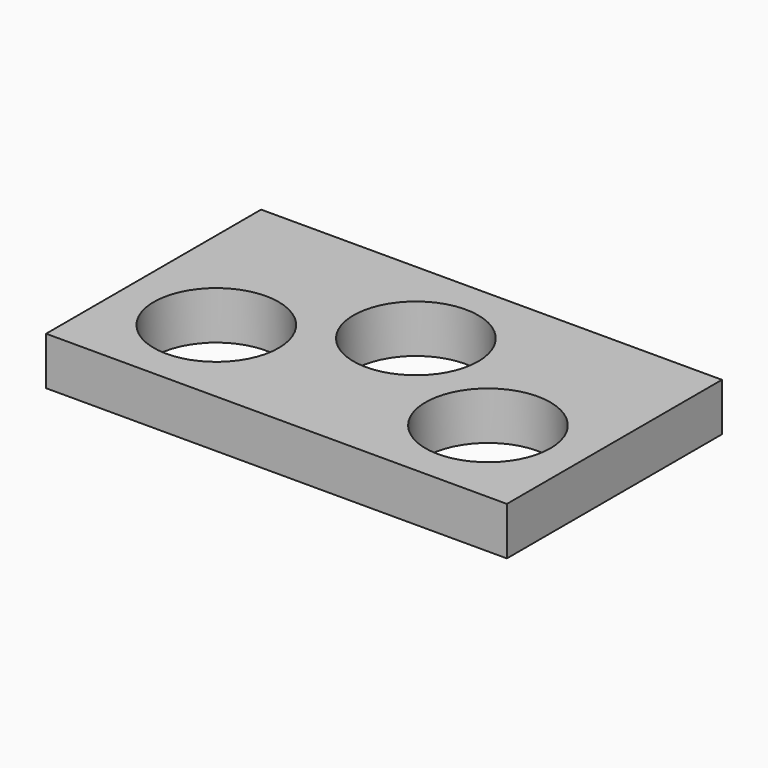
from build123d import *

# Parameters (mm, degrees)
F0_W     = 121.92
F0_H     = 71.12
F0_R     = 16.51
F1_DEPTH = 12.7


with BuildPart() as f1:
    # F0 (on Top) → F1 (new body)
    with BuildSketch(Plane.XY):
        Rectangle(F0_W, F0_H)
        with Locations((-35.941, -10.541)):
            Circle(F0_R, mode=Mode.SUBTRACT)
        with Locations((35.941, -10.541)):
            Circle(F0_R, mode=Mode.SUBTRACT)
        with Locations((0, 10.541)):
            Circle(F0_R, mode=Mode.SUBTRACT)
    extrude(amount=-F1_DEPTH)


solid = f1.part
